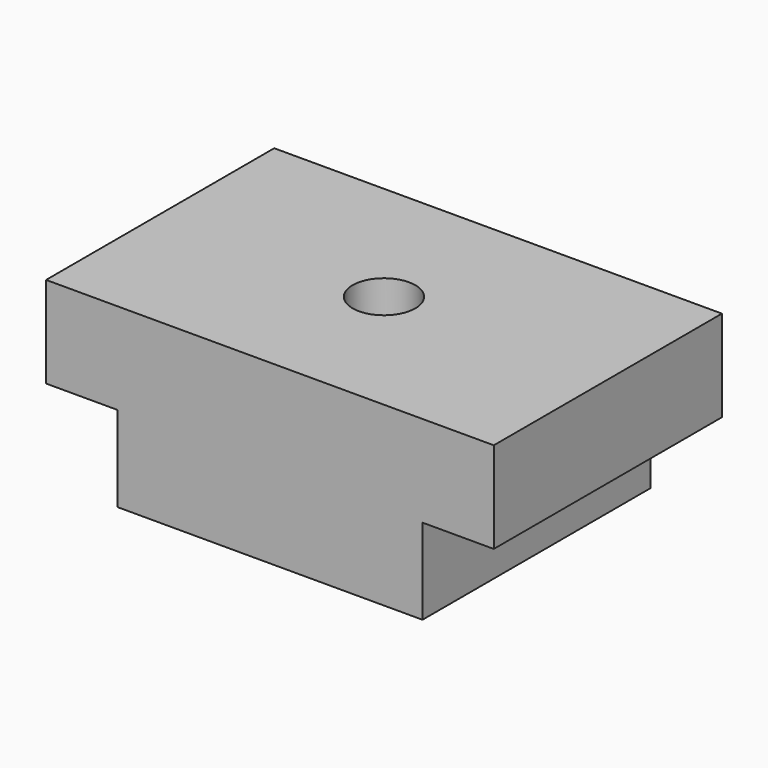
from build123d import *

# Parameters (mm, degrees)
F1_DEPTH = 10
F2_R     = 1.1
F3_DEPTH = 6.2


with BuildPart() as f1:
    # F0 (on Front) → F1 (new body)
    with BuildSketch(Plane.XZ):
        Polygon((-5.35, 3), (-5.35, 0), (5.35, 0), (5.35, 3), (7.85, 3), (7.85, 6.2), (-7.85, 6.2), (-7.85, 3), align=None)
    extrude(amount=F1_DEPTH)

    # F2 (on face) → F3 (cut, through all)
    with BuildSketch(Plane.XY.offset(6.2)):
        with Locations((0, -5)):
            Circle(F2_R)
    extrude(amount=-F3_DEPTH, mode=Mode.SUBTRACT)


solid = f1.part
